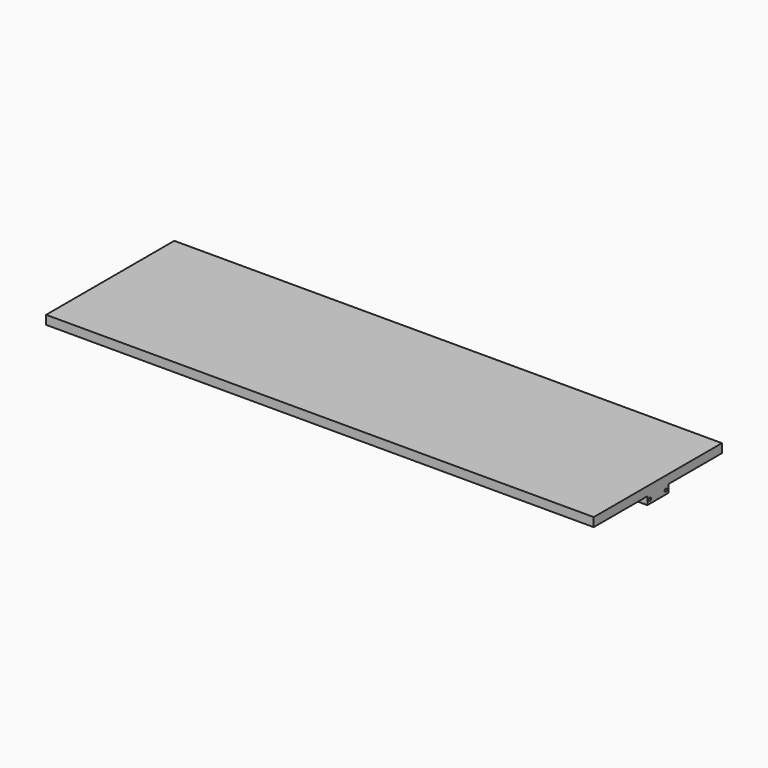
from build123d import *

# Parameters (mm, degrees)
F0_W     = 1193.8
F0_H     = 349.25
F1_DEPTH = 19.3548
F2_W     = 1193.8
F2_H     = 57.15
F3_DEPTH = 17.0942
F5_D     = 6.35


with BuildPart() as f1:
    # F0 (on Top) → F1 (new body)
    with BuildSketch(Plane.XY):
        Rectangle(F0_W, F0_H)
    extrude(amount=F1_DEPTH)

    # F2 (on face) → F3 (join)
    with BuildSketch(Plane(origin=(0, 0, 0), x_dir=(1, 0, 0), z_dir=(0, 0, -1))):
        Rectangle(F2_W, F2_H)
    extrude(amount=F3_DEPTH)

    # F5 (through all)
    with Locations(Plane(origin=(-596.9, 0, 0), x_dir=(0, -1, 0), z_dir=(-1, 0, 0))):
        with Locations((-21.59, -8.5471), (21.59, -8.5471)):
            Hole(F5_D / 2)


solid = f1.part
